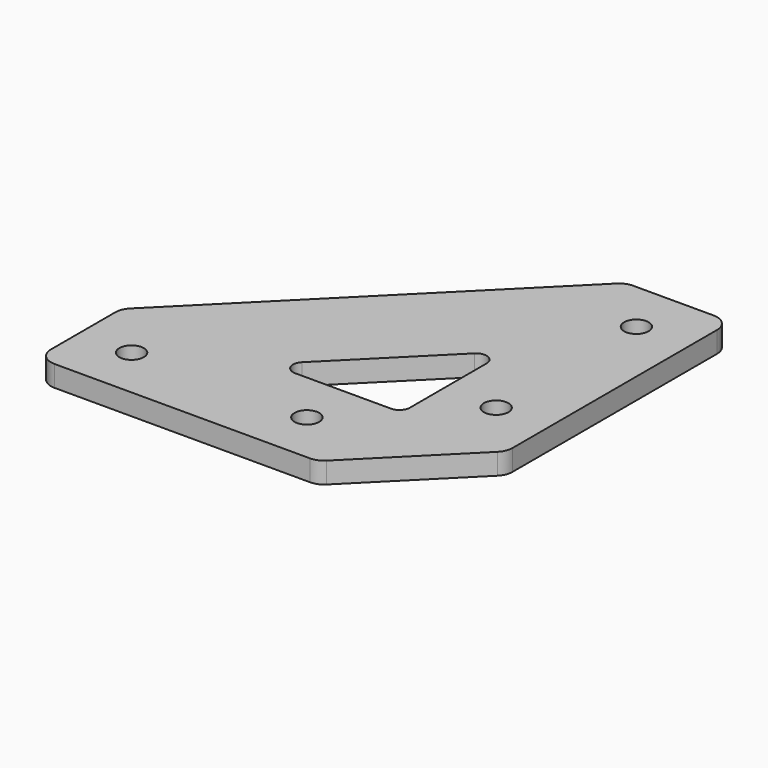
from build123d import *

# Parameters (mm, degrees)
SKETCH_R    = 3.5
PAD_DEPTH   = 6
FILLET_R    = 5
FILLET001_R = 3


with BuildPart() as part:
    # Sketch → Pad (new body)
    with BuildSketch(Plane.XY):
        Polygon((-30, 0), (-110, 0), (-110, 30), (-30, 110), (0, 110), (0, 30), align=None)
        with Locations((-95, 15)):
            Circle(SKETCH_R, mode=Mode.SUBTRACT)
        with Locations((-45, 15)):
            Circle(SKETCH_R, mode=Mode.SUBTRACT)
        with Locations((-15, 45)):
            Circle(SKETCH_R, mode=Mode.SUBTRACT)
        with Locations((-15, 95)):
            Circle(SKETCH_R, mode=Mode.SUBTRACT)
        Polygon((-30, 67.573593), (-67.573593, 30), (-30, 30), align=None, mode=Mode.SUBTRACT)
    extrude(amount=PAD_DEPTH)

    # Fillet
    fillet_edges = [part.edges().sort_by_distance(p)[0] for p in [
        (-110, 0, 3),
        (-110, 30, 3),
        (-30, 110, 3),
        (0, 110, 3),
        (0, 30, 3),
        (-30, 0, 3),
    ]]
    fillet(fillet_edges, radius=FILLET_R)

    # Fillet001
    fillet001_edges = [part.edges().sort_by_distance(p)[0] for p in [
        (-67.573593, 30, 3),
        (-30, 67.573593, 3),
        (-30, 30, 3),
    ]]
    fillet(fillet001_edges, radius=FILLET001_R)


solid = part.part
